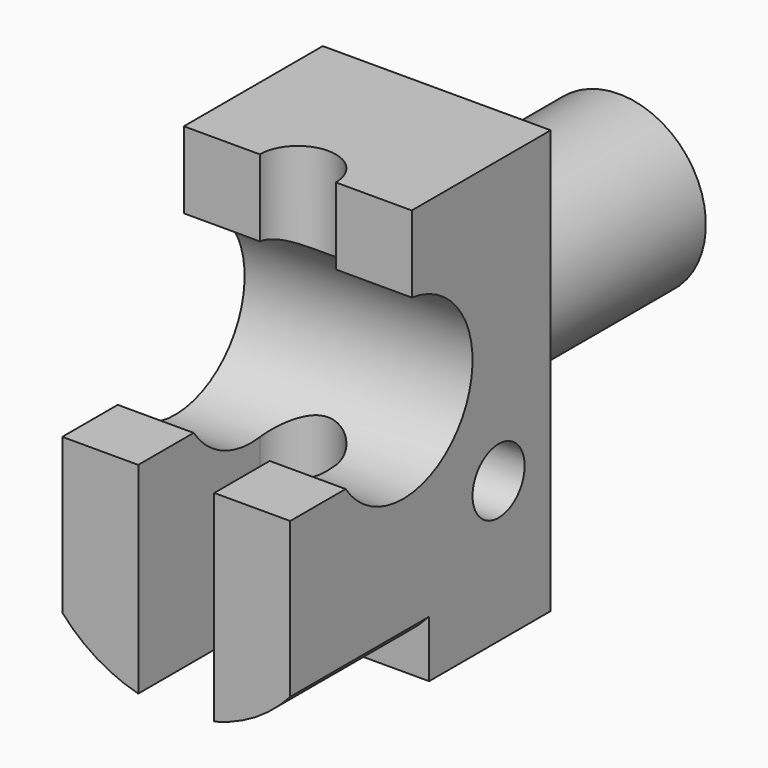
from build123d import *

# Parameters (mm, degrees)
F0_W      = 762
F0_H      = 990.6
F1_DEPTH  = 533.4
F2_W      = 177.8
F2_H      = 355.6
F3_DEPTH  = 495.3
F4_DEPTH  = 1188.72
F6_DEPTH  = 406.4
F8_DEPTH  = 406.4
F10_DEPTH = 533.4
F11_R     = 101.6
F12_DEPTH = 533.4
F14_DEPTH = 751.84
F16_DEPTH = 1084.58


with BuildPart() as f1:
    # F0 (on Right) → F1 (new body)
    with BuildSketch(Plane.YZ):
        Rectangle(F0_W, F0_H)
    extrude(amount=F1_DEPTH)

    # F2 (on face) → F3 (cut)
    with BuildSketch(Plane.XY.offset(495.3)):
        with Locations((88.9, -203.2)):
            Rectangle(F2_W, F2_H)
        with Locations((444.5, -203.2)):
            Rectangle(F2_W, F2_H)
    extrude(amount=-F3_DEPTH, mode=Mode.SUBTRACT)

    # F2 (on face) → F4 (cut)
    with BuildSketch(Plane.XY.offset(495.3)):
        with BuildLine():
            Line((355.6, -381), (355.6, -25.4))
            ThreePointArc((355.6, -25.4), (266.7, 63.5), (177.8, -25.4))
            Line((177.8, -25.4), (177.8, -381))
            Line((177.8, -381), (355.6, -381))
        make_face()
    extrude(amount=-F4_DEPTH, mode=Mode.SUBTRACT)

    # F5 (on face) → F6 (cut)
    with BuildSketch(Plane.XZ.offset(381)):
        with BuildLine():
            Line((533.4, -495.3), (533.4, -362.2072915536))
            ThreePointArc((533.4, -362.2072915536), (452.6800879623, -430.0887112407), (355.6, -471.3082194778))
            Line((355.6, -471.3082194778), (355.6, -495.3))
            Line((355.6, -495.3), (533.4, -495.3))
        make_face()
    extrude(amount=-F6_DEPTH, mode=Mode.SUBTRACT)

    # F7 (on face) → F8 (cut)
    with BuildSketch(Plane.XZ.offset(381)):
        with BuildLine():
            ThreePointArc((177.8, -471.3082194778), (80.7199120377, -430.0887112407), (0, -362.2072915536))
            Line((0, -362.2072915536), (0, -495.3))
            Line((0, -495.3), (177.8, -495.3))
            Line((177.8, -495.3), (177.8, -471.3082194778))
        make_face()
    extrude(amount=-F8_DEPTH, mode=Mode.SUBTRACT)

    # F9 (on face) → F10 (join)
    with BuildSketch(Plane(origin=(0, 381, 0), x_dir=(-1, 0, 0), z_dir=(0, 1, 0))):
        with BuildLine():
            ThreePointArc((-266.7, -139.7), (-123.0159020629, -80.1840979371), (-63.5, 63.5))
            ThreePointArc((-63.5, 63.5), (-410.3840979371, 207.1840979371), (-266.7, -139.7))
        make_face()
    extrude(amount=F10_DEPTH)

    # F11 (on face) → F12 (cut)
    with BuildSketch(Plane(origin=(0, 914.4, 0), x_dir=(-1, 0, 0), z_dir=(0, 1, 0))):
        with Locations((-266.7, 63.5)):
            Circle(F11_R)
    extrude(amount=-F12_DEPTH, mode=Mode.SUBTRACT)

    # F14 (cut): a face of the model
    f14_faces = [f1.faces().sort_by_distance(p)[0] for p in [
        (355.6, 0, -483.3041097389),
    ]]
    extrude(f14_faces, amount=-F14_DEPTH, mode=Mode.SUBTRACT)

    # F15 (on face) → F16 (cut)
    with BuildSketch(Plane.YZ.offset(533.4)):
        with BuildLine():
            ThreePointArc((152.4, -165.1), (174.7184632736, -218.9815367264), (228.6, -241.3))
            Line((228.6, -241.3), (228.6, -165.1))
            Line((228.6, -165.1), (152.4, -165.1))
        make_face()
        with BuildLine():
            ThreePointArc((152.4, 114.3), (-194.4840979371, 257.9840979371), (-50.8, -88.9))
            ThreePointArc((-50.8, -88.9), (92.8840979371, -29.3840979371), (152.4, 114.3))
        make_face()
        with BuildLine():
            Line((228.6, -165.1), (228.6, -241.3))
            ThreePointArc((228.6, -241.3), (282.4815367264, -218.9815367264), (304.8, -165.1))
            ThreePointArc((304.8, -165.1), (228.6, -88.9), (152.4, -165.1))
            Line((152.4, -165.1), (228.6, -165.1))
        make_face()
    extrude(amount=-F16_DEPTH, mode=Mode.SUBTRACT)


solid = f1.part
